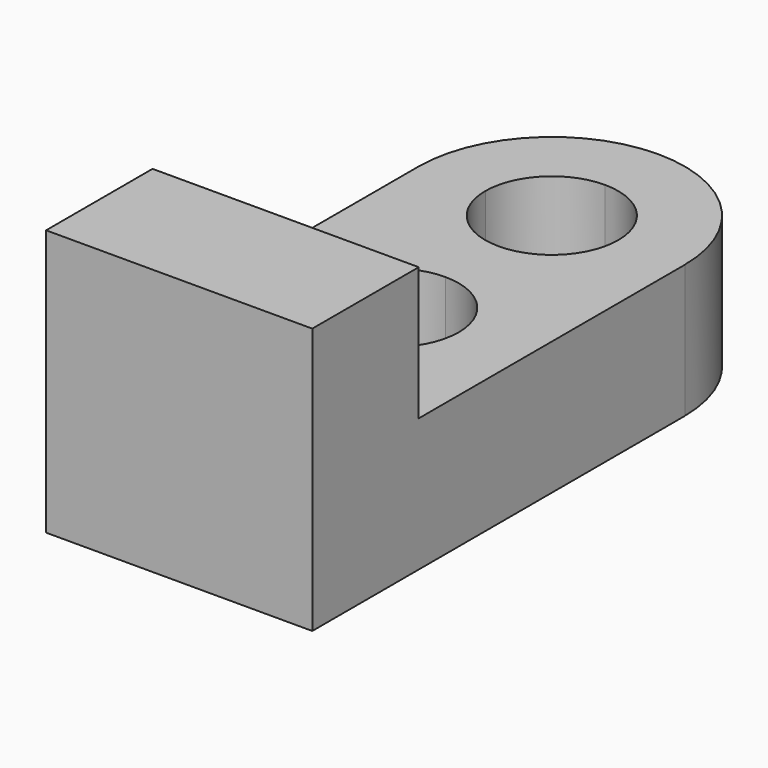
from build123d import *

# Parameters (mm, degrees)
F1_DEPTH = 25.4
F2_W     = 50.8
F2_H     = 25.4
F3_DEPTH = 25.4
F5_DEPTH = 25.4


with BuildPart() as f1:
    # F0 (on Top) → F1 (new body)
    with BuildSketch(Plane.XY):
        with BuildLine():
            Line((-60.40253, 55.21483), (-60.424231, 55.21483))
            Line((-60.424231, 55.21483), (-60.424231, -33.68517))
            Line((-60.424231, -33.68517), (-9.624231, -33.68517))
            Line((-9.624231, -33.68517), (-9.624231, 55.21483))
            Line((-9.624231, 55.21483), (-9.645933, 55.21483))
            ThreePointArc((-9.645933, 55.21483), (-35.024231, 80.593129), (-60.40253, 55.21483))
        make_face()
        with BuildLine():
            Line((-60.40253, 55.21483), (-60.424231, 55.21483))
            Line((-60.424231, 55.21483), (-60.424231, -33.68517))
            Line((-60.424231, -33.68517), (-9.624231, -33.68517))
            Line((-9.624231, -33.68517), (-9.624231, 55.21483))
            Line((-9.624231, 55.21483), (-9.645933, 55.21483))
            ThreePointArc((-9.645933, 55.21483), (-35.024231, 80.593129), (-60.40253, 55.21483))
        make_face()
    extrude(amount=F1_DEPTH)

    # F2 (on face) → F3 (join)
    with BuildSketch(Plane.XY.offset(25.4)):
        with Locations((-35.024231, -20.98517)):
            Rectangle(F2_W, F2_H)
    extrude(amount=F3_DEPTH)

    # F4 (on face) → F5 (cut)
    with BuildSketch(Plane.XY.offset(25.4)):
        with BuildLine():
            Line((-35.024231, 17.11483), (-22.324231, 17.11483))
            ThreePointArc((-22.324231, 17.11483), (-26.043975, 26.095086), (-35.024231, 29.81483))
            Line((-35.024231, 29.81483), (-35.024231, 17.11483))
        make_face()
        with BuildLine():
            ThreePointArc((-35.024231, 4.41483), (-26.043975, 8.134574), (-22.324231, 17.11483))
            Line((-22.324231, 17.11483), (-35.024231, 17.11483))
            Line((-35.024231, 17.11483), (-35.024231, 4.41483))
        make_face()
        with BuildLine():
            Line((-35.024231, 17.11483), (-35.024231, 29.81483))
            ThreePointArc((-35.024231, 29.81483), (-44.004487, 26.095086), (-47.724231, 17.11483))
            Line((-47.724231, 17.11483), (-35.024231, 17.11483))
        make_face()
        with BuildLine():
            ThreePointArc((-47.724231, 17.11483), (-44.004487, 8.134574), (-35.024231, 4.41483))
            Line((-35.024231, 4.41483), (-35.024231, 17.11483))
            Line((-35.024231, 17.11483), (-47.724231, 17.11483))
        make_face()
        with BuildLine():
            Line((-35.024231, 55.203979), (-22.335082, 55.203979))
            ThreePointArc((-22.335082, 55.203979), (-26.051648, 64.176563), (-35.024231, 67.893129))
            Line((-35.024231, 67.893129), (-35.024231, 55.203979))
        make_face()
        with BuildLine():
            ThreePointArc((-35.024231, 42.51483), (-26.051648, 46.231396), (-22.335082, 55.203979))
            Line((-22.335082, 55.203979), (-35.024231, 55.203979))
            Line((-35.024231, 55.203979), (-35.024231, 42.51483))
        make_face()
        with BuildLine():
            Line((-35.024231, 55.203979), (-35.024231, 67.893129))
            ThreePointArc((-35.024231, 67.893129), (-43.996815, 64.176563), (-47.713381, 55.203979))
            Line((-47.713381, 55.203979), (-35.024231, 55.203979))
        make_face()
        with BuildLine():
            ThreePointArc((-47.713381, 55.203979), (-43.996815, 46.231396), (-35.024231, 42.51483))
            Line((-35.024231, 42.51483), (-35.024231, 55.203979))
            Line((-35.024231, 55.203979), (-47.713381, 55.203979))
        make_face()
    extrude(amount=-F5_DEPTH, mode=Mode.SUBTRACT)


solid = f1.part
